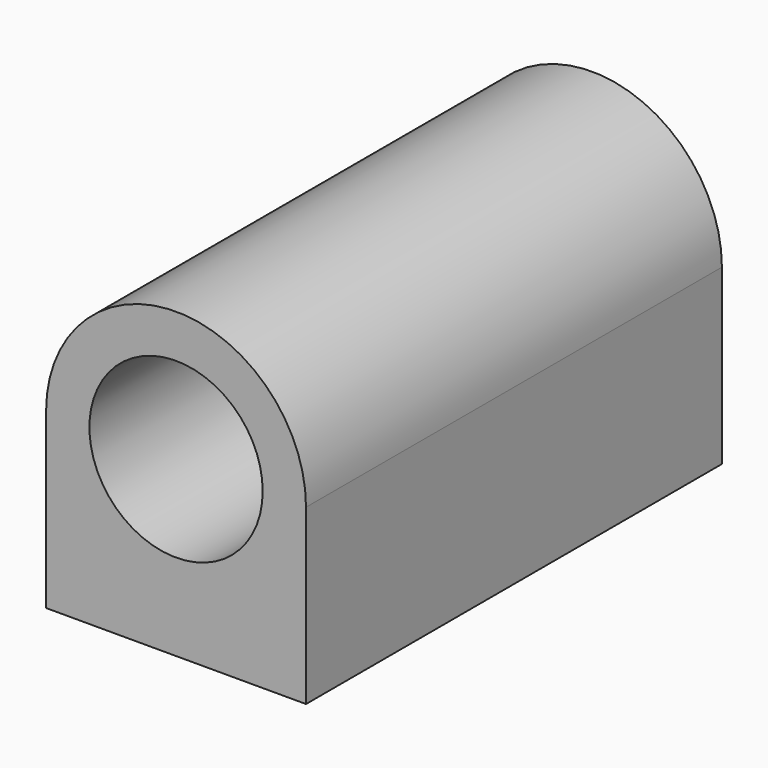
from build123d import *

# Parameters (mm, degrees)
F0_R     = 12.7
F1_DEPTH = 76.2
F2_R     = 1.651
F3_DEPTH = 12.7


with BuildPart() as f1:
    # F0 (on Front) → F1 (new body)
    with BuildSketch(Plane.XZ):
        with BuildLine():
            Line((19.05, -25.4), (19.05, 0))
            ThreePointArc((19.05, 0), (0, 19.05), (-19.05, 0))
            Line((-19.05, 0), (-19.05, -25.4))
            Line((-19.05, -25.4), (19.05, -25.4))
        make_face()
        Circle(F0_R, mode=Mode.SUBTRACT)
    extrude(amount=F1_DEPTH)

    # F2 (on face) → F3 (cut)
    with BuildSketch(Plane(origin=(0, 0, -25.4), x_dir=(1, 0, 0), z_dir=(0, 0, -1))):
        with Locations((-12.7, 69.85)):
            Circle(F2_R)
        with Locations((12.7, 69.85)):
            Circle(F2_R)
        with Locations((-12.7, 6.35)):
            Circle(F2_R)
        with Locations((12.7, 6.5532)):
            Circle(F2_R)
    extrude(amount=-F3_DEPTH, mode=Mode.SUBTRACT)


solid = f1.part
